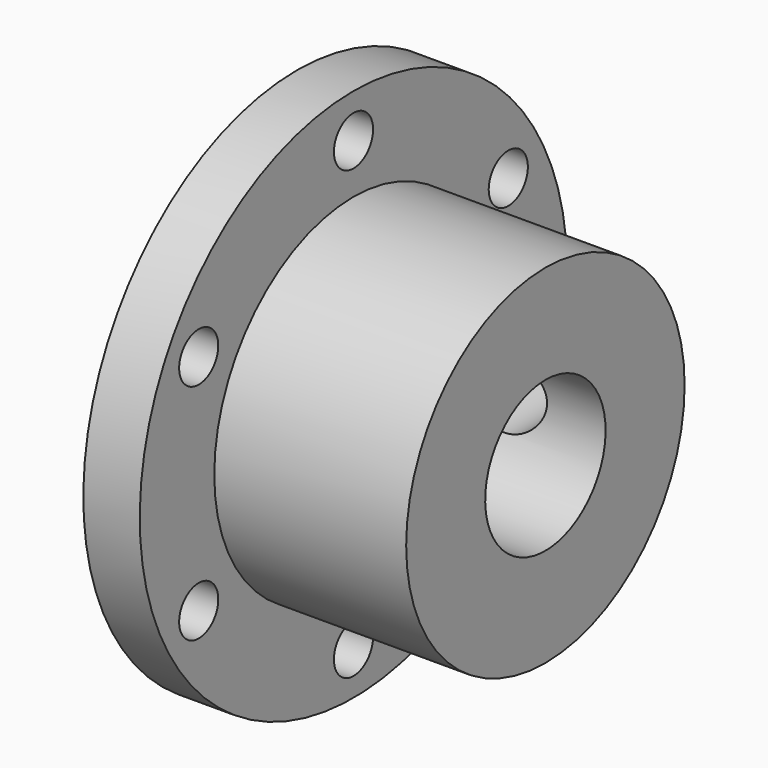
from build123d import *

# Parameters (mm, degrees)
F2_R     = 2.6
F3_DEPTH = 25
F4_R     = 4
F5_DEPTH = 25


with BuildPart() as f1:
    # F0 (on Front) → F1 (revolve)
    with BuildSketch(Plane.XZ):
        Polygon((-18.202801, -2.841857), (8.197199, -2.841857), (8.197199, 7.658143), (-12.202801, 7.658143), (-12.202801, 17.558143), (-18.202801, 17.558143), align=None)
    revolve(axis=Axis((2.917131, 0, -10.841857), (1, 0, 0)))

    # F2 (on face) → F3 (cut)
    with BuildSketch(Plane(origin=(-18.202801, 0, 0), x_dir=(0, -1, 0), z_dir=(-1, 0, 0))):
        with Locations((0, 12.908143)):
            Circle(F2_R)
        with Locations((-20.568103, 1.033143)):
            Circle(F2_R)
        with Locations((-20.568103, -22.716857)):
            Circle(F2_R)
        with Locations((0, -34.591857)):
            Circle(F2_R)
        with Locations((20.568103, -22.716857)):
            Circle(F2_R)
        with Locations((20.568103, 1.033143)):
            Circle(F2_R)
    extrude(amount=-F3_DEPTH, mode=Mode.SUBTRACT)

    # F4 (on Front) → F5 (cut)
    with BuildSketch(Plane.XZ):
        with Locations((-2.002801, -10.072675)):
            Circle(F4_R)
    extrude(amount=-F5_DEPTH, mode=Mode.SUBTRACT)


solid = f1.part
